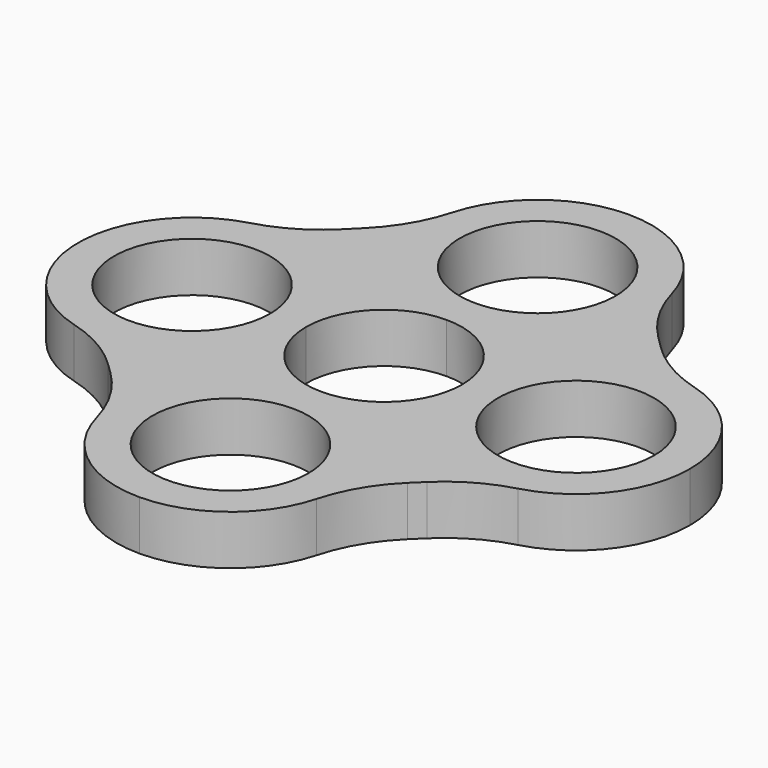
from build123d import *

# Parameters (mm, degrees)
F0_R     = 11
F1_DEPTH = 7
F2_R     = 20.32


with BuildPart() as f1:
    # F0 (on Top) → F1 (new body)
    with BuildSketch(Plane.XY):
        with BuildLine():
            ThreePointArc((-11, 0), (-7.778175, 7.778175), (0, 11))
            ThreePointArc((0, 11), (-11.370277, 15.709723), (-16.08, 27.08))
            Line((-16.08, 27.08), (-27.08, 16.08))
            ThreePointArc((-27.08, 16.08), (-15.709723, 11.370277), (-11, 0))
        make_face()
        with BuildLine():
            ThreePointArc((-16.08, 27.08), (-11.370277, 15.709723), (0, 11))
            ThreePointArc((0, 11), (11.370277, 15.709723), (16.08, 27.08))
            ThreePointArc((16.08, 27.08), (11.370277, 38.450277), (0, 43.16))
            ThreePointArc((0, 43.16), (-11.370277, 38.450277), (-16.08, 27.08))
        make_face()
        with BuildLine():
            ThreePointArc((0, 16.08), (-11, 27.08), (0, 38.08))
            ThreePointArc((0, 38.08), (11, 27.08), (0, 16.08))
        make_face(mode=Mode.SUBTRACT)
        with BuildLine():
            ThreePointArc((16.08, 27.08), (11.370277, 15.709723), (0, 11))
            ThreePointArc((0, 11), (7.778175, 7.778175), (11, 0))
            ThreePointArc((11, 0), (15.709723, 11.370277), (27.08, 16.08))
            Line((27.08, 16.08), (16.08, 27.08))
        make_face()
        with BuildLine():
            ThreePointArc((-27.08, -16.08), (-15.709723, -11.370277), (-11, 0))
            ThreePointArc((-11, 0), (-15.709723, 11.370277), (-27.08, 16.08))
            ThreePointArc((-27.08, 16.08), (-43.16, 0), (-27.08, -16.08))
        make_face()
        with Locations((-27.08, 0)):
            Circle(F0_R, mode=Mode.SUBTRACT)
        with BuildLine():
            ThreePointArc((0, -11), (-7.778175, -7.778175), (-11, 0))
            ThreePointArc((-11, 0), (-15.709723, -11.370277), (-27.08, -16.08))
            Line((-27.08, -16.08), (-16.077294, -26.785029))
            ThreePointArc((-16.077294, -26.785029), (-11.265506, -15.605909), (0, -11))
        make_face()
        with BuildLine():
            ThreePointArc((27.08, -16.08), (15.709723, -11.370277), (11, 0))
            ThreePointArc((11, 0), (7.778175, -7.778175), (0, -11))
            ThreePointArc((0, -11), (11.265506, -15.605909), (16.077294, -26.785029))
            Line((16.077294, -26.785029), (27.08, -16.08))
        make_face()
        with BuildLine():
            ThreePointArc((27.08, 16.08), (15.709723, 11.370277), (11, 0))
            ThreePointArc((11, 0), (15.709723, -11.370277), (27.08, -16.08))
            ThreePointArc((27.08, -16.08), (38.450277, -11.370277), (43.16, 0))
            ThreePointArc((43.16, 0), (38.450277, 11.370277), (27.08, 16.08))
        make_face()
        with Locations((27.08, 0)):
            Circle(F0_R, mode=Mode.SUBTRACT)
        with BuildLine():
            ThreePointArc((16.077294, -26.785029), (11.265506, -15.605909), (0, -11))
            ThreePointArc((0, -11), (-11.265506, -15.605909), (-16.077294, -26.785029))
            ThreePointArc((-16.077294, -26.785029), (-11.474091, -38.345506), (0, -43.16))
            ThreePointArc((0, -43.16), (11.474091, -38.345506), (16.077294, -26.785029))
        make_face()
        with BuildLine():
            ThreePointArc((0, -38.08), (-11, -27.08), (0, -16.08))
            ThreePointArc((0, -16.08), (11, -27.08), (0, -38.08))
        make_face(mode=Mode.SUBTRACT)
    extrude(amount=F1_DEPTH)

    # F2
    f2_edges = [f1.edges().sort_by_distance(p)[0] for p in [
        (-16.08, 27.08, 3.5),
        (-27.08, 16.08, 3.5),
        (16.08, 27.08, 3.5),
        (27.08, 16.08, 3.5),
        (27.08, -16.08, 3.5),
        (16.077294, -26.785029, 3.5),
        (-27.08, -16.08, 3.5),
        (-16.077294, -26.785029, 3.5),
    ]]
    fillet(f2_edges, radius=F2_R)


solid = f1.part
